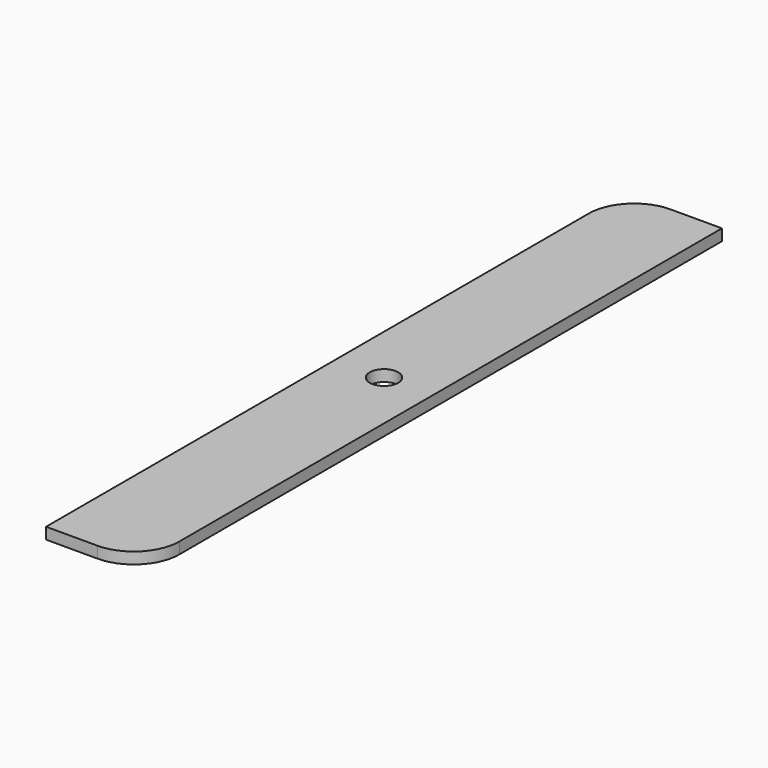
from build123d import *

# Parameters (mm, degrees)
F0_W     = 17
F0_H     = 127
F0_R     = 2.5
F1_DEPTH = 2
F2_R     = 8


with BuildPart() as f1:
    # F0 (on Top) → F1 (new body)
    with BuildSketch(Plane.XY):
        Rectangle(F0_W, F0_H)
        Circle(F0_R, mode=Mode.SUBTRACT)
    extrude(amount=F1_DEPTH)

    # F2
    f2_edges = [f1.edges().sort_by_distance(p)[0] for p in [
        (-8.5, 63.5, 1),
        (8.5, -63.5, 1),
    ]]
    fillet(f2_edges, radius=F2_R)


solid = f1.part
